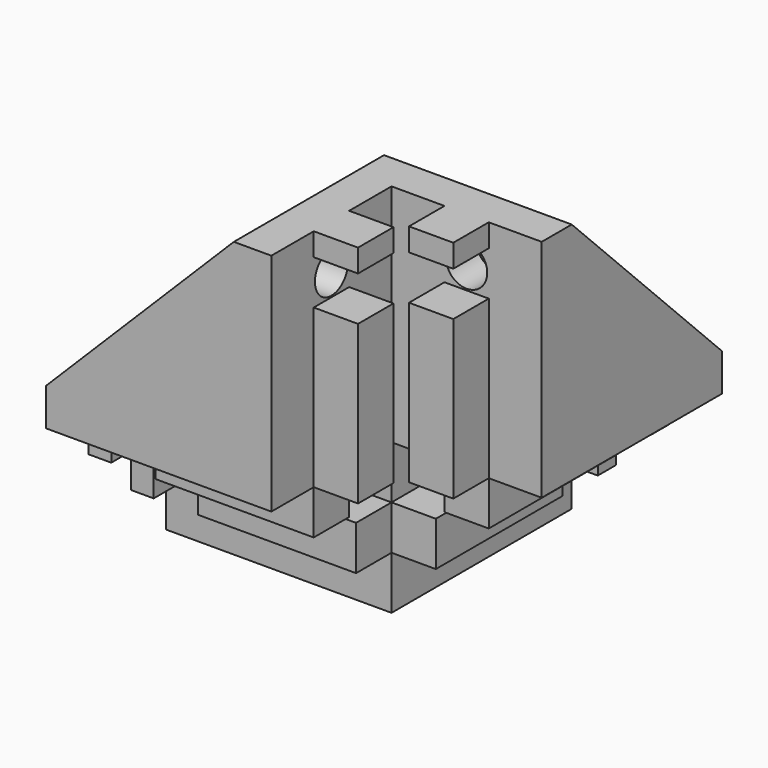
from build123d import *

# Parameters (mm, degrees)
F0_W      = 20
F0_H      = 30
F0_W_2    = 30
F0_H_2    = 20
F1_DEPTH  = 50
F2_DEPTH  = 20
F3_SIZE   = 25
F6_DEPTH  = 10
F9_DEPTH  = 10
F12_DEPTH = 10
F13_R     = 2.75
F14_DEPTH = 5
F15_R     = 2.75
F16_DEPTH = 5
F17_R     = 2.75
F18_DEPTH = 5
F19_R     = 2.75
F20_DEPTH = 5
F21_R     = 2.75
F22_DEPTH = 5
F23_R     = 2.75
F24_DEPTH = 5
F25_W     = 5.9
F25_H     = 21.05
F25_H_2   = 3.05
F26_DEPTH = 5.9
F27_W     = 5.9
F27_H     = 3.04
F27_H_2   = 21.06
F28_DEPTH = 5.9
F29_W     = 26.96
F29_H     = 5.9
F29_W_2   = 3.04
F30_DEPTH = 5.9
F31_W     = 5.9
F31_H     = 26.94
F31_H_2   = 3.06
F32_DEPTH = 5.9
F33_W     = 21.06
F33_H     = 5.9
F33_W_2   = 3.04
F34_DEPTH = 5.9
F35_W     = 26.95
F35_H     = 5.9
F35_W_2   = 3.05
F36_DEPTH = 5.9
F37_W     = 5.9
F37_H     = 5.9
F38_DEPTH = 5.9
F39_W     = 5.9
F39_H     = 5.9
F40_DEPTH = 5.9
F41_W     = 5.9
F41_H     = 5.9
F42_DEPTH = 5.9


with BuildPart() as f1:
    # F0 (on Top) → F1 (new body)
    with BuildSketch(Plane.XY):
        with Locations((15, 10)):
            Rectangle(F0_W, F0_H)
        Polygon((5, -5), (5, 25), (0, 25), (-25, 0), (-25, -5), align=None)
        with Locations((-10, -15)):
            Rectangle(F0_W_2, F0_H_2)
    extrude(amount=F1_DEPTH)

    # F0 (on Top) → F2 (cut)
    with BuildSketch(Plane.XY):
        with Locations((-10, -15)):
            Rectangle(F0_W_2, F0_H_2)
        with Locations((15, 10)):
            Rectangle(F0_W, F0_H)
    extrude(amount=F2_DEPTH, mode=Mode.SUBTRACT)

    # F3 (call 1 of 2: OpenCascade refuses the feature's edges together)
    f3_edges = [f1.edges().sort_by_distance(p)[0] for p in [
        (12.5, 25, 50),
    ]]
    chamfer(f3_edges, length=F3_SIZE)

    # F3#2 (call 2 of 2)
    f3_2_edges = [f1.edges().sort_by_distance(p)[0] for p in [
        (-25, -12.5, 50),
    ]]
    chamfer(f3_2_edges, length=F3_SIZE)

    # F5 (on offset) → F6 (cut)
    with BuildSketch(Plane.YZ.offset(20)):
        Polygon((0, 25), (25, 25), (0, 50), align=None)
    extrude(amount=-F6_DEPTH, mode=Mode.SUBTRACT)

    # F8 (on offset) → F9 (cut)
    with BuildSketch(Plane.XZ.offset(20)):
        Polygon((0, 25), (0, 50), (-25, 25), align=None)
    extrude(amount=-F9_DEPTH, mode=Mode.SUBTRACT)

    # F11 (on offset) → F12 (cut)
    with BuildSketch(Plane.XY.offset(5)):
        Polygon((0, 0), (0, 25), (-25, 0), align=None)
    extrude(amount=F12_DEPTH, mode=Mode.SUBTRACT)

    # F13 (on face) → F14 (cut)
    with BuildSketch(Plane(origin=(0, 0, 0), x_dir=(0, -1, 0), z_dir=(-1, 0, 0))):
        with Locations((15, 44)):
            Circle(F13_R)
    extrude(amount=-F14_DEPTH, mode=Mode.SUBTRACT)

    # F15 (on face) → F16 (cut)
    with BuildSketch(Plane.XY.offset(25)):
        with Locations((-19, -15)):
            Circle(F15_R)
    extrude(amount=-F16_DEPTH, mode=Mode.SUBTRACT)

    # F17 (on face) → F18 (cut)
    with BuildSketch(Plane(origin=(0, 0, 0), x_dir=(-1, 0, 0), z_dir=(0, 1, 0))):
        with Locations((19, 10)):
            Circle(F17_R)
    extrude(amount=-F18_DEPTH, mode=Mode.SUBTRACT)

    # F19 (on face) → F20 (cut)
    with BuildSketch(Plane(origin=(0, 0, 0), x_dir=(0, -1, 0), z_dir=(-1, 0, 0))):
        with Locations((-19, 10)):
            Circle(F19_R)
    extrude(amount=-F20_DEPTH, mode=Mode.SUBTRACT)

    # F21 (on face) → F22 (cut)
    with BuildSketch(Plane.XY.offset(25)):
        with Locations((15, 19)):
            Circle(F21_R)
    extrude(amount=-F22_DEPTH, mode=Mode.SUBTRACT)

    # F23 (on face) → F24 (cut)
    with BuildSketch(Plane(origin=(0, 0, 0), x_dir=(-1, 0, 0), z_dir=(0, 1, 0))):
        with Locations((-15, 44)):
            Circle(F23_R)
    extrude(amount=-F24_DEPTH, mode=Mode.SUBTRACT)

    # F25 (on face) → F26 (join)
    with BuildSketch(Plane.XZ.offset(5)):
        with Locations((15, 30.525)):
            Rectangle(F25_W, F25_H)
        with Locations((15, 48.475)):
            Rectangle(F25_W, F25_H_2)
    extrude(amount=F26_DEPTH)

    # F27 (on face) → F28 (join)
    with BuildSketch(Plane.YZ.offset(5)):
        with Locations((-15, 48.48)):
            Rectangle(F27_W, F27_H)
        with Locations((-15, 30.53)):
            Rectangle(F27_W, F27_H_2)
    extrude(amount=F28_DEPTH)

    # F29 (on face) → F30 (join)
    with BuildSketch(Plane(origin=(0, 0, 20), x_dir=(1, 0, 0), z_dir=(0, 0, -1))):
        with Locations((-2.58, 15)):
            Rectangle(F29_W, F29_H)
        with Locations((-23.48, 15)):
            Rectangle(F29_W_2, F29_H)
    extrude(amount=F30_DEPTH)

    # F31 (on face) → F32 (join)
    with BuildSketch(Plane(origin=(0, 0, 20), x_dir=(1, 0, 0), z_dir=(0, 0, -1))):
        with Locations((15, -2.57)):
            Rectangle(F31_W, F31_H)
        with Locations((15, -23.47)):
            Rectangle(F31_W, F31_H_2)
    extrude(amount=F32_DEPTH)

    # F33 (on face) → F34 (join)
    with BuildSketch(Plane.YZ.offset(5)):
        with Locations((5.53, 10)):
            Rectangle(F33_W, F33_H)
        with Locations((23.48, 10)):
            Rectangle(F33_W_2, F33_H)
    extrude(amount=F34_DEPTH)

    # F35 (on face) → F36 (join)
    with BuildSketch(Plane.XZ.offset(5)):
        with Locations((-2.575, 10)):
            Rectangle(F35_W, F35_H)
        with Locations((-23.475, 10)):
            Rectangle(F35_W_2, F35_H)
    extrude(amount=F36_DEPTH)

    # F37 (on face) → F38 (cut)
    with BuildSketch(Plane(origin=(0, 0, 7.05), x_dir=(1, 0, 0), z_dir=(0, 0, -1))):
        with Locations((7.95, 7.95)):
            Rectangle(F37_W, F37_H)
    extrude(amount=-F38_DEPTH, mode=Mode.SUBTRACT)

    # F39 (on face) → F40 (cut)
    with BuildSketch(Plane(origin=(0, 0, 14.1), x_dir=(1, 0, 0), z_dir=(0, 0, -1))):
        with Locations((7.95, 15)):
            Rectangle(F39_W, F39_H)
    extrude(amount=-F40_DEPTH, mode=Mode.SUBTRACT)

    # F41 (on face) → F42 (cut)
    with BuildSketch(Plane(origin=(0, 0, 14.1), x_dir=(1, 0, 0), z_dir=(0, 0, -1))):
        with Locations((15, 7.95)):
            Rectangle(F41_W, F41_H)
    extrude(amount=-F42_DEPTH, mode=Mode.SUBTRACT)


solid = f1.part
